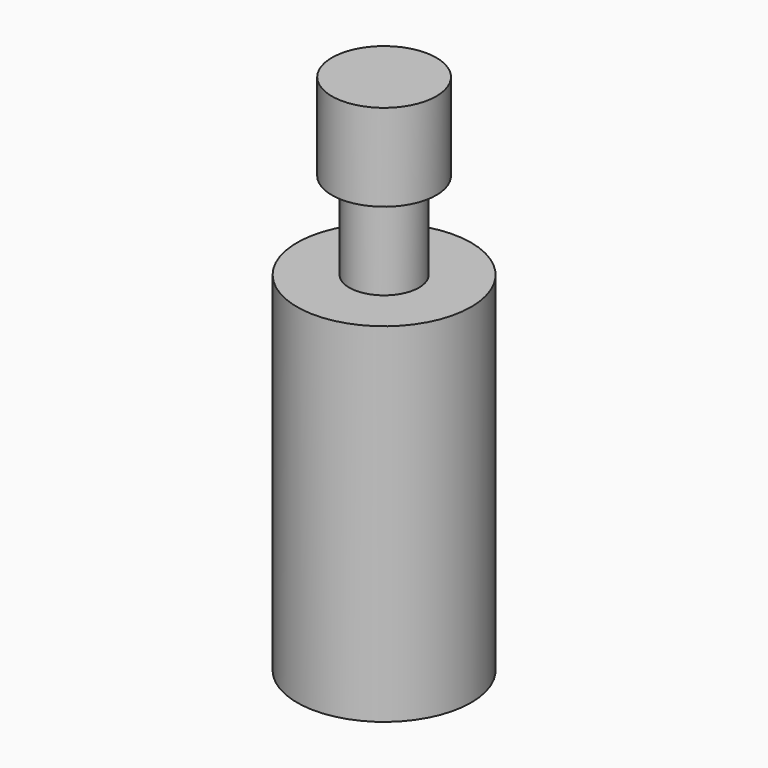
from build123d import *


with BuildPart() as part:
    # Sketch → Revolution (revolve)
    with BuildSketch(Plane.XZ):
        Polygon((0, 0), (2, 2), (2, 5), (10, 5), (10, 45), (4, 45), (4, 55), (6, 55), (6, 65), (0, 65), align=None)
    revolve(axis=Axis((0, 0, 0), (0, 0, 1)))


solid = part.part
